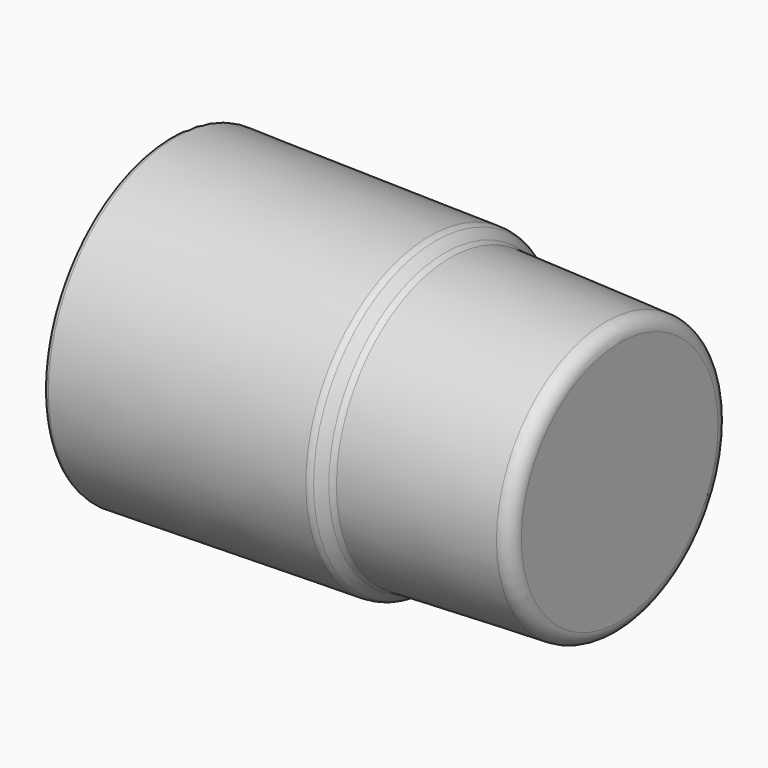
from build123d import *

# Parameters (mm, degrees)
F2_R = 1
F3_R = 0.5
F4_R = 3
F5_R = 2
F6_R = 3


with BuildPart() as f1:
    # F0 (on Top) → F1 (revolve)
    with BuildSketch(Plane.XY):
        Polygon((-4, 0), (0, 0), (0, 28.9), (-36.5, 30.25), (-39.5, 32.8), (-95, 33.75), (-95, 31.75), (-65, 28.256164), (-4, 26), align=None)
    revolve(axis=Axis((-75.031272, 0, 0), (-1, 0, 0)))

    # F2
    f2_edges = [f1.edges().sort_by_distance(p)[0] for p in [
        (-95, -33.75, 0),
    ]]
    fillet(f2_edges, radius=F2_R)

    # F3
    f3_edges = [f1.edges().sort_by_distance(p)[0] for p in [
        (-95, -31.75, 0),
    ]]
    fillet(f3_edges, radius=F3_R)

    # F4
    f4_edges = [f1.edges().sort_by_distance(p)[0] for p in [
        (0, -28.9, 0),
    ]]
    fillet(f4_edges, radius=F4_R)

    # F5
    f5_edges = [f1.edges().sort_by_distance(p)[0] for p in [
        (-36.5, -30.25, 0),
        (-39.5, -32.8, 0),
    ]]
    fillet(f5_edges, radius=F5_R)

    # F6
    f6_edges = [f1.edges().sort_by_distance(p)[0] for p in [
        (-4, -26, 0),
    ]]
    fillet(f6_edges, radius=F6_R)


solid = f1.part
